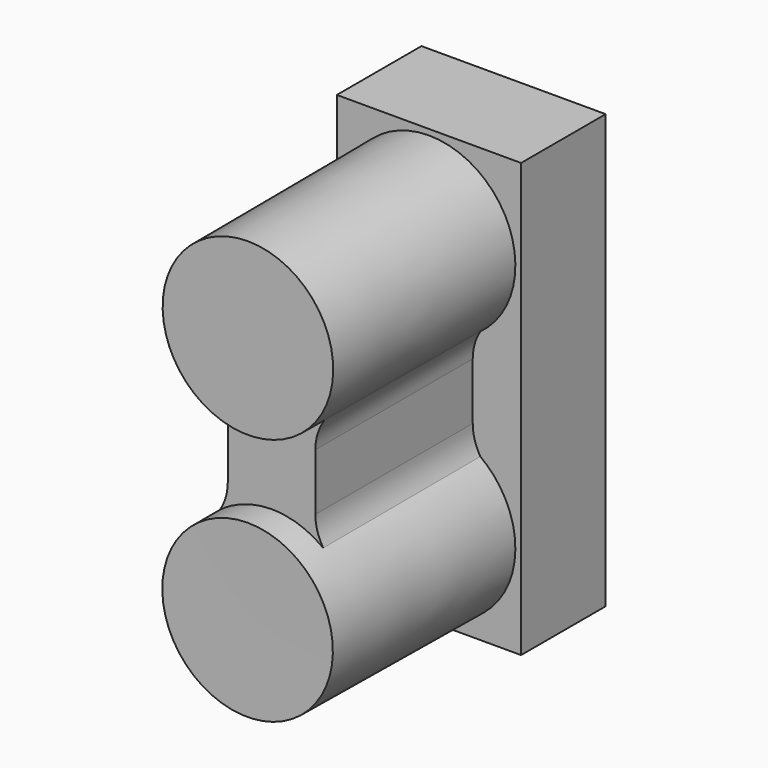
from build123d import *

# Parameters (mm, degrees)
F4_DEPTH = 22.098
F3_W     = 20.574
F3_H     = 48.387
F5_DEPTH = 0.127
F6_DEPTH = 11.557


with BuildPart() as f1:
    # F0 (on Right) → F1 (revolve)
    with BuildSketch(Plane.YZ):
        Polygon((-25.4, 23.4315), (-25.4, 13.9065), (0, 13.9065), (0, 23.5585), align=None)
    revolve(axis=Axis((0, -12.7, 13.9065), (0, 1, 0)))



with BuildPart() as f2:
    # F0 (on Right) → F2 (revolve)
    with BuildSketch(Plane.YZ):
        Polygon((0, -13.9065), (0, -4.2545), (-25.4, -4.2545), (-25.4, -13.7795), align=None)
    revolve(axis=Axis((0, -12.7, -13.843), (0, 0.9999875002, -0.0049999375)))


with BuildPart() as f1_1:
    add(f1.part)

    add(f2.part)  # F4 merges F2
    # F3 (on Front) → F4 (join)
    with BuildSketch(Plane.XZ):
        with BuildLine():
            Line((4.8895, -3.175), (4.8895, 3.175))
            ThreePointArc((4.8895, 3.175), (5.3288232031, 5.3549618496), (6.57820844, 7.1946017797))
            ThreePointArc((6.57820844, 7.1946017797), (0, 4.5085), (-6.57820844, 7.1946017797))
            ThreePointArc((-6.57820844, 7.1946017797), (-5.3288232031, 5.3549618496), (-4.8895, 3.175))
            Line((-4.8895, 3.175), (-4.8895, -3.175))
            ThreePointArc((-4.8895, -3.175), (-5.3287958737, -5.3547810515), (-6.5781006563, -7.1942548506))
            ThreePointArc((-6.5781006563, -7.1942548506), (0, -4.508258706), (6.5781006563, -7.1942548506))
            ThreePointArc((6.5781006563, -7.1942548506), (5.3287958737, -5.3547810515), (4.8895, -3.175))
        make_face()
    extrude(amount=F4_DEPTH)

    # F3 (on Front) → F5 (join, symmetric)
    with BuildSketch(Plane.XZ):
        Rectangle(F3_W, F3_H)
        with BuildLine():
            ThreePointArc((6.57820844, 7.1946017797), (5.3288232031, 5.3549618496), (4.8895, 3.175))
            Line((4.8895, 3.175), (4.8895, -3.175))
            ThreePointArc((4.8895, -3.175), (5.3287958737, -5.3547810515), (6.5781006563, -7.1942548506))
            ThreePointArc((6.5781006563, -7.1942548506), (8.6643924763, -10.2661066466), (9.398, -13.906258706))
            ThreePointArc((9.398, -13.906258706), (-3.6401520595, -22.5706511824), (-6.5781006563, -7.1942548506))
            ThreePointArc((-6.5781006563, -7.1942548506), (-5.3287958737, -5.3547810515), (-4.8895, -3.175))
            Line((-4.8895, -3.175), (-4.8895, 3.175))
            ThreePointArc((-4.8895, 3.175), (-5.3288232031, 5.3549618496), (-6.57820844, 7.1946017797))
            ThreePointArc((-6.57820844, 7.1946017797), (-3.6400824909, 22.5709217037), (9.398, 13.9065))
            ThreePointArc((9.398, 13.9065), (8.6644217037, 10.2664175091), (6.57820844, 7.1946017797))
        make_face(mode=Mode.SUBTRACT)
        with BuildLine():
            ThreePointArc((9.398, -13.906258706), (8.6643924763, -10.2661066466), (6.5781006563, -7.1942548506))
            ThreePointArc((6.5781006563, -7.1942548506), (0, -4.508258706), (-6.5781006563, -7.1942548506))
            ThreePointArc((-6.5781006563, -7.1942548506), (-3.6401520595, -22.5706511824), (9.398, -13.906258706))
        make_face()
        with BuildLine():
            Line((4.8895, -3.175), (4.8895, 3.175))
            ThreePointArc((4.8895, 3.175), (5.3288232031, 5.3549618496), (6.57820844, 7.1946017797))
            ThreePointArc((6.57820844, 7.1946017797), (0, 4.5085), (-6.57820844, 7.1946017797))
            ThreePointArc((-6.57820844, 7.1946017797), (-5.3288232031, 5.3549618496), (-4.8895, 3.175))
            Line((-4.8895, 3.175), (-4.8895, -3.175))
            ThreePointArc((-4.8895, -3.175), (-5.3287958737, -5.3547810515), (-6.5781006563, -7.1942548506))
            ThreePointArc((-6.5781006563, -7.1942548506), (0, -4.508258706), (6.5781006563, -7.1942548506))
            ThreePointArc((6.5781006563, -7.1942548506), (5.3287958737, -5.3547810515), (4.8895, -3.175))
        make_face()
        with BuildLine():
            ThreePointArc((-6.57820844, 7.1946017797), (0, 4.5085), (6.57820844, 7.1946017797))
            ThreePointArc((6.57820844, 7.1946017797), (8.6644217037, 10.2664175091), (9.398, 13.9065))
            ThreePointArc((9.398, 13.9065), (-3.6400824909, 22.5709217037), (-6.57820844, 7.1946017797))
        make_face()
    extrude(amount=F5_DEPTH, both=True)

    # F6 (add): a face of the model
    f6_faces = [f1_1.faces().sort_by_distance(p)[0] for p in [
        (0, 0.127, 0),
    ]]
    extrude(f6_faces, amount=F6_DEPTH)


solid = f1_1.part
